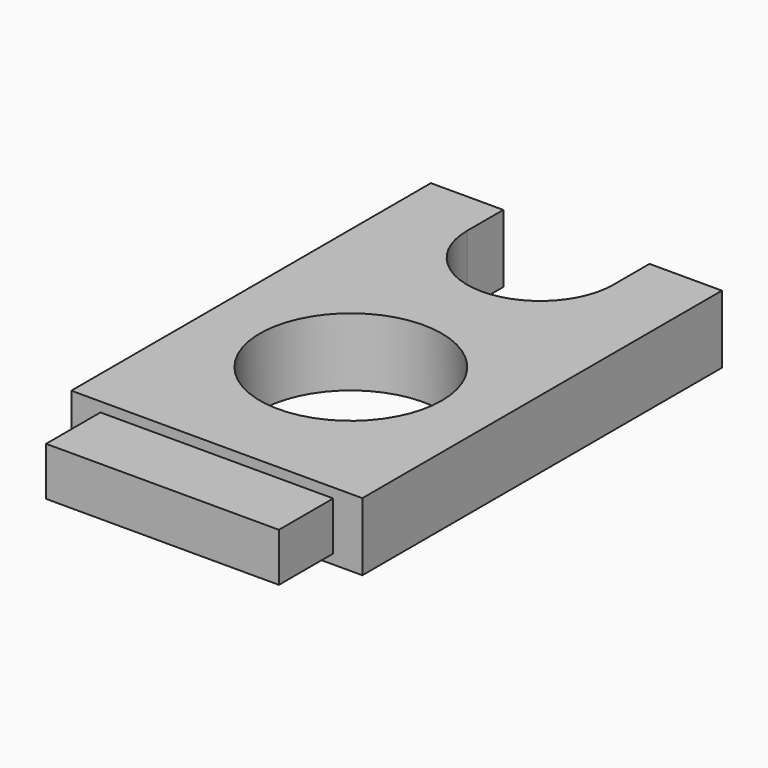
from build123d import *

# Parameters (mm, degrees)
F0_W     = 285.75
F0_H     = 66.675
F1_DEPTH = 508
F2_W     = 285.75
F2_H     = 66.675
F2_W_2   = 228.6
F2_H_2   = 47.625
F3_DEPTH = 66.675
F4_R     = 89.296875
F4_W     = 143.51
F4_H     = 44.45
F5_DEPTH = 66.676


with BuildPart() as f1:
    # F0 (on Front) → F1 (new body)
    with BuildSketch(Plane.XZ):
        Rectangle(F0_W, F0_H)
    extrude(amount=F1_DEPTH)

    # F2 (on face) → F3 (cut)
    with BuildSketch(Plane.XZ.offset(508)):
        Rectangle(F2_W, F2_H)
        Rectangle(F2_W_2, F2_H_2, mode=Mode.SUBTRACT)
    extrude(amount=-F3_DEPTH, mode=Mode.SUBTRACT)

    # F4 (on face) → F5 (cut, through all)
    with BuildSketch(Plane.XY.offset(33.3375)):
        with Locations((0, -276.82825)):
            Circle(F4_R)
        with BuildLine():
            Line((71.755, -44.45), (-71.755, -44.45))
            ThreePointArc((-71.755, -44.45), (0, -116.205), (71.755, -44.45))
        make_face()
        with Locations((0, -22.225)):
            Rectangle(F4_W, F4_H)
    extrude(amount=-F5_DEPTH, mode=Mode.SUBTRACT)


solid = f1.part
